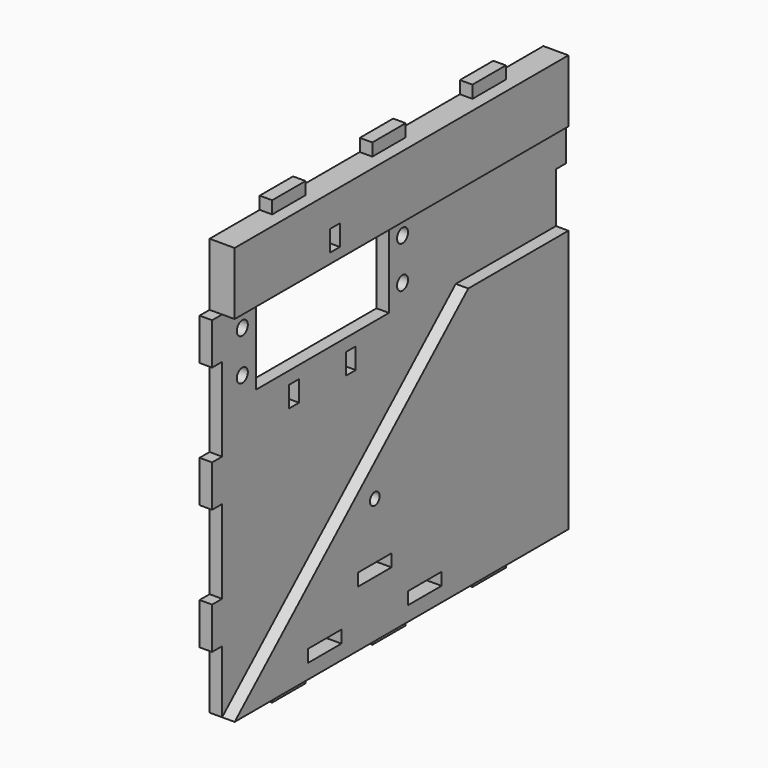
from build123d import *

# Parameters (mm, degrees)
F0_R     = 1.45
F0_W     = 10
F0_H     = 3
F0_W_2   = 3
F0_H_2   = 10
F1_DEPTH = 3
F2_R     = 1.65
F2_W     = 2.98
F2_H     = 5
F2_W_2   = 39.9
F2_H_2   = 19.4
F3_DEPTH = 25
F2_R_2   = 1.45
F4_DEPTH = 6
F5_W     = 10
F5_H     = 2.98
F6_DEPTH = 12.5


with BuildPart() as f1:
    # F0 (on Right) → F1 (new body)
    with BuildSketch(Plane.YZ):
        Polygon((-35, 50), (-50, 50), (-50, 35), (-47, 35), (-47, 25), (-50, 25), (-50, 5), (-47, 5), (-47, -5), (-50, -5), (-50, -25), (-47, -25), (-47, -35), (-50, -35), (-50, -50), (-35, -50), (-35, -47), (-25, -47), (-25, -50), (-5, -50), (-5, -47), (5, -47), (5, -50), (25, -50), (25, -47), (35, -47), (35, -50), (50, -50), (50, -35), (47, -35), (47, -25), (50, -25), (50, -5), (47, -5), (47, 5), (50, 5), (50, 25), (47, 25), (47, 35), (50, 35), (50, 50), (35, 50), (35, 47), (25, 47), (25, 50), (5, 50), (5, 47), (-5, 47), (-5, 50), (-25, 50), (-25, 47), (-35, 47), align=None)
        with Locations((-8, -20)):
            Circle(F0_R, mode=Mode.SUBTRACT)
        with Locations((-30, 51.5)):
            Rectangle(F0_W, F0_H)
        with Locations((-30, 48.5)):
            Rectangle(F0_W, F0_H)
        with Locations((-48.5, 30)):
            Rectangle(F0_W_2, F0_H_2)
        with Locations((-51.5, 30)):
            Rectangle(F0_W_2, F0_H_2)
        with Locations((0, 51.5)):
            Rectangle(F0_W, F0_H)
        with Locations((0, 48.5)):
            Rectangle(F0_W, F0_H)
        with Locations((-48.5, 0)):
            Rectangle(F0_W_2, F0_H_2)
        with Locations((-51.5, 0)):
            Rectangle(F0_W_2, F0_H_2)
        with Locations((30, 51.5)):
            Rectangle(F0_W, F0_H)
        with Locations((30, 48.5)):
            Rectangle(F0_W, F0_H)
        with Locations((-48.5, -30)):
            Rectangle(F0_W_2, F0_H_2)
        with Locations((-51.5, -30)):
            Rectangle(F0_W_2, F0_H_2)
        with Locations((51.5, 30)):
            Rectangle(F0_W_2, F0_H_2)
        with Locations((48.5, 30)):
            Rectangle(F0_W_2, F0_H_2)
        with Locations((-30, -48.5)):
            Rectangle(F0_W, F0_H)
        with Locations((-30, -51.5)):
            Rectangle(F0_W, F0_H)
        with Locations((51.5, 0)):
            Rectangle(F0_W_2, F0_H_2)
        with Locations((48.5, 0)):
            Rectangle(F0_W_2, F0_H_2)
        with Locations((0, -48.5)):
            Rectangle(F0_W, F0_H)
        with Locations((0, -51.5)):
            Rectangle(F0_W, F0_H)
        with Locations((51.5, -30)):
            Rectangle(F0_W_2, F0_H_2)
        with Locations((48.5, -30)):
            Rectangle(F0_W_2, F0_H_2)
        with Locations((30, -48.5)):
            Rectangle(F0_W, F0_H)
        with Locations((30, -51.5)):
            Rectangle(F0_W, F0_H)
    extrude(amount=F1_DEPTH)

    # F2 (on face) → F3 (cut)
    with BuildSketch(Plane(origin=(0, 0, 0), x_dir=(0, -1, 0), z_dir=(-1, 0, 0))):
        with Locations((-4.05, 29.7)):
            Circle(F2_R)
        with Locations((-4.05, 19.7)):
            Circle(F2_R)
        with Locations((43.95, 29.7)):
            Circle(F2_R)
        with Locations((43.95, 19.7)):
            Circle(F2_R)
        with Locations((11.4694618905, 9.5)):
            Rectangle(F2_W, F2_H)
        with Locations((28.4305381095, 9.5)):
            Rectangle(F2_W, F2_H)
        with Locations((19.95, 24.7)):
            Rectangle(F2_W_2, F2_H_2)
        with Locations((19.95, 39.9)):
            Rectangle(F2_W, F2_H)
    extrude(amount=-F3_DEPTH, mode=Mode.SUBTRACT)

    # F2 (on face) → F4 (join)
    with BuildSketch(Plane(origin=(0, 0, 0), x_dir=(0, -1, 0), z_dir=(-1, 0, 0))):
        Polygon((-50, 50), (-50, 35), (50, 35), (50, 50), (35, 50), (25, 50), (5, 50), (-5, 50), (-25, 50), (-35, 50), align=None)
        with Locations((19.95, 39.9)):
            Rectangle(F2_W, F2_H, mode=Mode.SUBTRACT)
        Polygon((-50, -35), (-50, -50), (-35, -50), (-25, -50), (-5, -50), (5, -50), (25, -50), (35, -50), (50, -50), (-20, 13), (-50, 13), (-50, 5), (-50, -5), (-50, -25), align=None)
        with Locations((8, -20)):
            Circle(F2_R_2, mode=Mode.SUBTRACT)
    extrude(amount=-F4_DEPTH)

    # F5 (on Right) → F6 (cut, symmetric)
    with BuildSketch(Plane.YZ):
        with Locations((-23, -45)):
            Rectangle(F5_W, F5_H)
        with Locations((-8, -35)):
            Rectangle(F5_W, F5_H)
        with Locations((7, -45)):
            Rectangle(F5_W, F5_H)
    extrude(amount=F6_DEPTH, both=True, mode=Mode.SUBTRACT)


solid = f1.part
